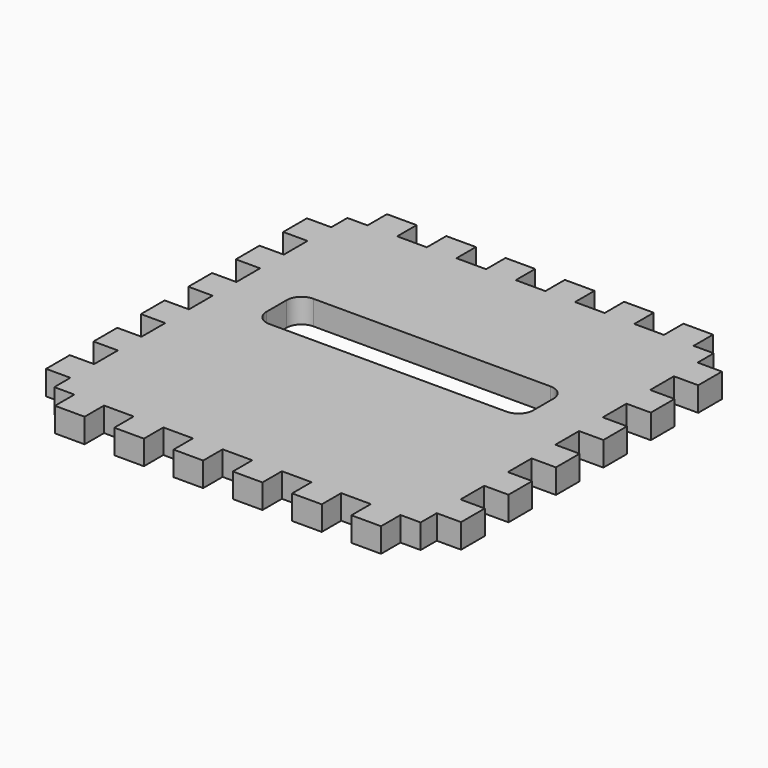
from build123d import *

# Parameters (mm, degrees)
F1_DEPTH = 10.414


with BuildPart() as f1:
    # F0 (on Top) → F1 (new body)
    with BuildSketch(Plane.XY):
        Polygon((31.75, 0), (19.05, 0), (19.05, -10.414), (10.414, -10.414), (10.414, -19.05), (0, -19.05), (0, -31.75), (10.414, -31.75), (10.414, -44.45), (0, -44.45), (0, -57.15), (10.414, -57.15), (10.414, -69.85), (0, -69.85), (0, -82.55), (10.414, -82.55), (10.414, -95.25), (0, -95.25), (0, -107.95), (10.414, -107.95), (10.414, -120.65), (0, -120.65), (0, -133.35), (10.414, -133.35), (10.414, -146.05), (0, -146.05), (0, -158.75), (10.414, -158.75), (10.414, -167.386), (19.05, -167.386), (19.05, -177.8), (31.75, -177.8), (31.75, -167.386), (44.45, -167.386), (44.45, -177.8), (57.15, -177.8), (57.15, -167.386), (69.85, -167.386), (69.85, -177.8), (82.55, -177.8), (82.55, -167.386), (95.25, -167.386), (95.25, -177.8), (107.95, -177.8), (107.95, -167.386), (120.65, -167.386), (120.65, -177.8), (133.35, -177.8), (133.35, -167.386), (146.05, -167.386), (146.05, -177.8), (158.75, -177.8), (158.75, -167.386), (167.386, -167.386), (167.386, -158.75), (177.8, -158.75), (177.8, -146.05), (167.386, -146.05), (167.386, -133.35), (177.8, -133.35), (177.8, -120.65), (167.386, -120.65), (167.386, -107.95), (177.8, -107.95), (177.8, -95.25), (167.386, -95.25), (167.386, -82.55), (177.8, -82.55), (177.8, -69.85), (167.386, -69.85), (167.386, -57.15), (177.8, -57.15), (177.8, -44.45), (167.386, -44.45), (167.386, -31.75), (177.8, -31.75), (177.8, -19.05), (167.386, -19.05), (167.386, -10.414), (158.75, -10.414), (158.75, 0), (146.05, 0), (146.05, -10.414), (133.35, -10.414), (133.35, 0), (120.65, 0), (120.65, -10.414), (107.95, -10.414), (107.95, 0), (95.25, 0), (95.25, -10.414), (82.55, -10.414), (82.55, 0), (69.85, 0), (69.85, -10.414), (57.15, -10.414), (57.15, 0), (44.45, 0), (44.45, -10.414), (31.75, -10.414), align=None)
        with BuildLine():
            ThreePointArc((31.75, -69.596), (33.609872, -65.105872), (38.1, -63.246))
            Line((38.1, -63.246), (139.7, -63.246))
            ThreePointArc((139.7, -63.246), (144.190128, -65.105872), (146.05, -69.596))
            Line((146.05, -69.596), (146.05, -80.391))
            ThreePointArc((146.05, -80.391), (144.190128, -84.881128), (139.7, -86.741))
            Line((139.7, -86.741), (38.1, -86.741))
            ThreePointArc((38.1, -86.741), (33.609872, -84.881128), (31.75, -80.391))
            Line((31.75, -80.391), (31.75, -69.596))
        make_face(mode=Mode.SUBTRACT)
    extrude(amount=F1_DEPTH)


solid = f1.part
